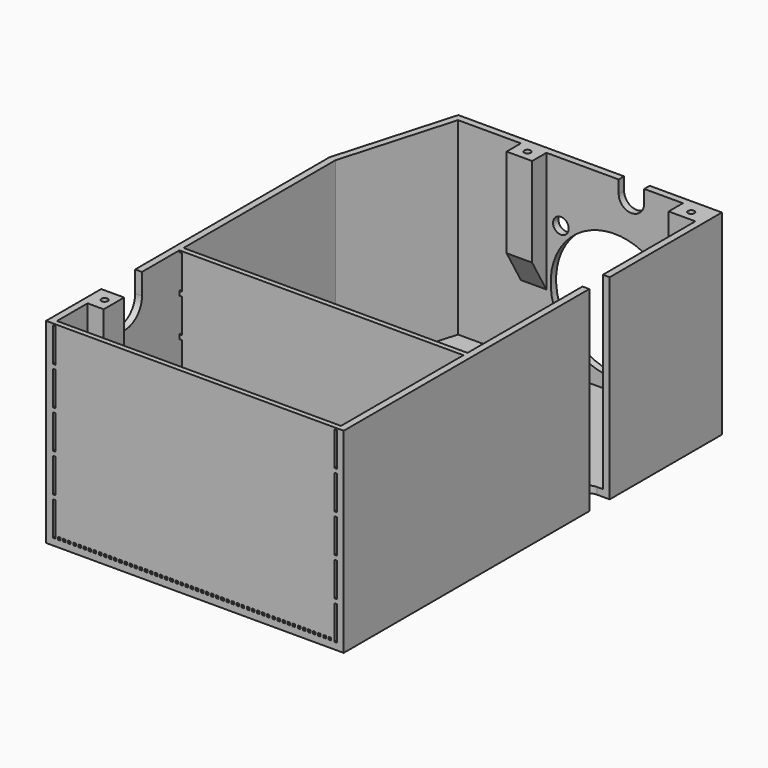
from build123d import *

# Parameters (mm, degrees)
F1_DEPTH  = 58.42
F2_T      = -2.032
F3_W      = 8.001
F3_H      = 5.334
F3_W_2    = 7.62
F3_W_3    = 4.826
F3_H_2    = 7.62
F3_W_4    = 84.836
F3_H_3    = 1.524
F4_DEPTH  = 56.388
F5_R      = 0.9525
F6_DEPTH  = 12.7
F7_DEPTH  = 2.032
F9_DEPTH  = 2.032
F11_DEPTH = 2.032
F13_DEPTH = 2.032
F16_DEPTH = 7.62
F18_DEPTH = 56.388
F19_R     = 2.3495
F19_R_2   = 19.05
F20_DEPTH = 2.032
F23_DEPTH = 2.541
F24_W     = 88.9
F24_H     = 58.42
F25_DEPTH = 1.524
F26_W     = 0.762
F26_H     = 10.16
F26_H_2   = 0.762
F27_DEPTH = 1.524
F28_W     = 0.762
F28_H     = 10.16
F28_H_2   = 0.762
F29_DEPTH = 1.524


with BuildPart() as f1:
    # F0 (on Top) → F1 (new body)
    with BuildSketch(Plane.XY):
        Polygon((-44.45, -69.85), (44.45, -69.85), (44.45, 69.85), (-34.29, 69.85), (-44.45, 34.4178692506), align=None)
    extrude(amount=F1_DEPTH)

    # F2
    f2_openings = [f1.faces().sort_by_distance(p)[0] for p in [
        (0.603889, -0.853543, 58.42),
    ]]
    offset(amount=F2_T, openings=f2_openings)

    # F3 (on face) → F4 (join)
    with BuildSketch(Plane.XY.offset(2.032)):
        with Locations((38.4175, 65.151)):
            Rectangle(F3_W, F3_H)
        with Locations((-10.16, 65.151)):
            Rectangle(F3_W_2, F3_H)
        with Locations((-40.005, -54.61)):
            Rectangle(F3_W_3, F3_H_2)
        with Locations((0, -23.368)):
            Rectangle(F3_W_4, F3_H_3)
    extrude(amount=F4_DEPTH)

    # F5 (on face) → F6 (cut)
    with BuildSketch(Plane.XY.offset(58.42)):
        with Locations((38.735, 65.532)):
            Circle(F5_R)
        with Locations((-10.16, 65.532)):
            Circle(F5_R)
        with Locations((-40.386, -54.61)):
            Circle(F5_R)
    extrude(amount=-F6_DEPTH, mode=Mode.SUBTRACT)

    # F7 (cut, through all): a face of the model
    f7_faces = [f1.faces().sort_by_distance(p)[0] for p in [
        (0, -67.818, 30.226),
    ]]
    extrude(f7_faces, amount=-F7_DEPTH, mode=Mode.SUBTRACT)

    # F8 (on face) → F9 (cut, through all)
    with BuildSketch(Plane(origin=(0, 69.85, 0), x_dir=(-1, 0, 0), z_dir=(0, 1, 0))):
        with BuildLine():
            Line((-22.86, 58.42), (-22.86, 54.61))
            ThreePointArc((-22.86, 54.61), (-19.05, 50.8), (-15.24, 54.61))
            Line((-15.24, 54.61), (-15.24, 58.42))
            Line((-15.24, 58.42), (-22.86, 58.42))
        make_face()
    extrude(amount=-F9_DEPTH, mode=Mode.SUBTRACT)

    # F10 (on face) → F11 (cut, through all)
    with BuildSketch(Plane.YZ.offset(44.45)):
        Polygon((27.94, 2.54), (27.94, 6.35), (27.94, 58.42), (20.32, 58.42), (20.32, 6.35), (20.32, 2.54), align=None)
    extrude(amount=-F11_DEPTH, mode=Mode.SUBTRACT)

    # F12 (on face) → F13 (cut, through all)
    with BuildSketch(Plane(origin=(-44.45, 0, 0), x_dir=(0, -1, 0), z_dir=(-1, 0, 0))):
        with BuildLine():
            Line((38.1, 58.42), (38.1, 52.07))
            ThreePointArc((38.1, 52.07), (44.45, 45.72), (50.8, 52.07))
            Line((50.8, 52.07), (50.8, 58.42))
            Line((50.8, 58.42), (38.1, 58.42))
        make_face()
    extrude(amount=-F13_DEPTH, mode=Mode.SUBTRACT)

    # F15 (on face) → F16 (cut, through all)
    with BuildSketch(Plane.XZ.offset(58.42)):
        Polygon((-37.592, 2.032), (-37.592, 32.5800590949), (-42.418, 24.2211818976), (-42.418, 2.032), align=None)
    extrude(amount=-F16_DEPTH, mode=Mode.SUBTRACT)

    # F17 (on face) → F18 (cut)
    with BuildSketch(Plane(origin=(-13.97, 0, 0), x_dir=(0, -1, 0), z_dir=(-1, 0, 0))):
        Polygon((-62.484, 2.032), (-62.484, 31.7001772846), (-67.818, 22.4614182771), (-67.818, 2.032), align=None)
    extrude(amount=-F18_DEPTH, mode=Mode.SUBTRACT)

    # F19 (on face) → F20 (cut, through all)
    with BuildSketch(Plane.XZ.offset(-67.818)):
        with Locations((-2.032, 8.636)):
            Circle(F19_R)
        with Locations((29.972, 8.636)):
            Circle(F19_R)
        with Locations((-2.032, 40.64)):
            Circle(F19_R)
        with Locations((29.972, 40.64)):
            Circle(F19_R)
        with Locations((13.97, 24.6840521259)):
            Circle(F19_R_2)
    extrude(amount=-F20_DEPTH, mode=Mode.SUBTRACT)

    # F22 (on face) → F23 (cut, through all)
    with BuildSketch(Plane(origin=(0, 0, 0), x_dir=(1, 0, 0), z_dir=(0, 0, -1))):
        with BuildLine():
            Line((40.64, -27.94), (44.45, -27.94))
            Line((44.45, -27.94), (44.45, -20.32))
            Line((44.45, -20.32), (40.64, -20.32))
            ThreePointArc((40.64, -20.32), (36.83, -24.13), (40.64, -27.94))
        make_face()
    extrude(amount=-F23_DEPTH, mode=Mode.SUBTRACT)

    # F24 (on face) → F25 (join)
    with BuildSketch(Plane.XZ.offset(69.85)):
        with Locations((0, 29.21)):
            Rectangle(F24_W, F24_H)
    extrude(amount=F25_DEPTH)

    # F26 (on face) → F27 (cut, through all)
    with BuildSketch(Plane.XZ.offset(71.374)):
        with Locations((-42.037, 7.112)):
            Rectangle(F26_W, F26_H)
        with Locations((-42.037, 18.542)):
            Rectangle(F26_W, F26_H)
        with Locations((-42.037, 29.972)):
            Rectangle(F26_W, F26_H)
        with Locations((-42.037, 41.402)):
            Rectangle(F26_W, F26_H)
        with Locations((-42.037, 52.832)):
            Rectangle(F26_W, F26_H)
        with Locations((42.037, 29.972)):
            Rectangle(F26_W, F26_H)
        with Locations((42.037, 52.832)):
            Rectangle(F26_W, F26_H)
        with Locations((42.037, 18.542)):
            Rectangle(F26_W, F26_H)
        with Locations((42.037, 7.112)):
            Rectangle(F26_W, F26_H)
        with Locations((42.037, 41.402)):
            Rectangle(F26_W, F26_H)
        with Locations((-40.513, 2.413)):
            Rectangle(F26_W, F26_H_2)
        with Locations((-38.989, 2.413)):
            Rectangle(F26_W, F26_H_2)
        with Locations((-37.465, 2.413)):
            Rectangle(F26_W, F26_H_2)
        with Locations((-35.941, 2.413)):
            Rectangle(F26_W, F26_H_2)
        with Locations((-34.417, 2.413)):
            Rectangle(F26_W, F26_H_2)
        with Locations((-32.893, 2.413)):
            Rectangle(F26_W, F26_H_2)
        with Locations((-31.369, 2.413)):
            Rectangle(F26_W, F26_H_2)
        with Locations((-29.845, 2.413)):
            Rectangle(F26_W, F26_H_2)
        with Locations((-28.321, 2.413)):
            Rectangle(F26_W, F26_H_2)
        with Locations((-26.797, 2.413)):
            Rectangle(F26_W, F26_H_2)
        with Locations((-25.273, 2.413)):
            Rectangle(F26_W, F26_H_2)
        with Locations((-23.749, 2.413)):
            Rectangle(F26_W, F26_H_2)
        with Locations((-22.225, 2.413)):
            Rectangle(F26_W, F26_H_2)
        with Locations((-20.701, 2.413)):
            Rectangle(F26_W, F26_H_2)
        with Locations((-19.177, 2.413)):
            Rectangle(F26_W, F26_H_2)
        with Locations((-17.653, 2.413)):
            Rectangle(F26_W, F26_H_2)
        with Locations((-16.129, 2.413)):
            Rectangle(F26_W, F26_H_2)
        with Locations((-14.605, 2.413)):
            Rectangle(F26_W, F26_H_2)
        with Locations((-13.081, 2.413)):
            Rectangle(F26_W, F26_H_2)
        with Locations((-11.557, 2.413)):
            Rectangle(F26_W, F26_H_2)
        with Locations((-10.033, 2.413)):
            Rectangle(F26_W, F26_H_2)
        with Locations((-8.509, 2.413)):
            Rectangle(F26_W, F26_H_2)
        with Locations((-6.985, 2.413)):
            Rectangle(F26_W, F26_H_2)
        with Locations((-5.461, 2.413)):
            Rectangle(F26_W, F26_H_2)
        with Locations((-3.937, 2.413)):
            Rectangle(F26_W, F26_H_2)
        with Locations((-2.413, 2.413)):
            Rectangle(F26_W, F26_H_2)
        with Locations((-0.889, 2.413)):
            Rectangle(F26_W, F26_H_2)
        with Locations((0.635, 2.413)):
            Rectangle(F26_W, F26_H_2)
        with Locations((2.159, 2.413)):
            Rectangle(F26_W, F26_H_2)
        with Locations((3.683, 2.413)):
            Rectangle(F26_W, F26_H_2)
        with Locations((5.207, 2.413)):
            Rectangle(F26_W, F26_H_2)
        with Locations((6.731, 2.413)):
            Rectangle(F26_W, F26_H_2)
        with Locations((8.255, 2.413)):
            Rectangle(F26_W, F26_H_2)
        with Locations((9.779, 2.413)):
            Rectangle(F26_W, F26_H_2)
        with Locations((11.303, 2.413)):
            Rectangle(F26_W, F26_H_2)
        with Locations((12.827, 2.413)):
            Rectangle(F26_W, F26_H_2)
        with Locations((14.351, 2.413)):
            Rectangle(F26_W, F26_H_2)
        with Locations((15.875, 2.413)):
            Rectangle(F26_W, F26_H_2)
        with Locations((17.399, 2.413)):
            Rectangle(F26_W, F26_H_2)
        with Locations((18.923, 2.413)):
            Rectangle(F26_W, F26_H_2)
        with Locations((20.447, 2.413)):
            Rectangle(F26_W, F26_H_2)
        with Locations((21.971, 2.413)):
            Rectangle(F26_W, F26_H_2)
        with Locations((23.495, 2.413)):
            Rectangle(F26_W, F26_H_2)
        with Locations((25.019, 2.413)):
            Rectangle(F26_W, F26_H_2)
        with Locations((26.543, 2.413)):
            Rectangle(F26_W, F26_H_2)
        with Locations((28.067, 2.413)):
            Rectangle(F26_W, F26_H_2)
        with Locations((29.591, 2.413)):
            Rectangle(F26_W, F26_H_2)
        with Locations((31.115, 2.413)):
            Rectangle(F26_W, F26_H_2)
        with Locations((32.639, 2.413)):
            Rectangle(F26_W, F26_H_2)
        with Locations((34.163, 2.413)):
            Rectangle(F26_W, F26_H_2)
        with Locations((35.687, 2.413)):
            Rectangle(F26_W, F26_H_2)
        with Locations((37.211, 2.413)):
            Rectangle(F26_W, F26_H_2)
        with Locations((38.735, 2.413)):
            Rectangle(F26_W, F26_H_2)
        with Locations((40.259, 2.413)):
            Rectangle(F26_W, F26_H_2)
    extrude(amount=-F27_DEPTH, mode=Mode.SUBTRACT)

    # F28 (on face) → F29 (cut, through all)
    with BuildSketch(Plane.XZ.offset(24.13)):
        with Locations((-42.037, 7.112)):
            Rectangle(F28_W, F28_H)
        with Locations((-42.037, 18.542)):
            Rectangle(F28_W, F28_H)
        with Locations((-42.037, 29.972)):
            Rectangle(F28_W, F28_H)
        with Locations((-42.037, 41.402)):
            Rectangle(F28_W, F28_H)
        with Locations((-42.037, 52.832)):
            Rectangle(F28_W, F28_H)
        with Locations((42.037, 29.972)):
            Rectangle(F28_W, F28_H)
        with Locations((42.037, 52.832)):
            Rectangle(F28_W, F28_H)
        with Locations((42.037, 18.542)):
            Rectangle(F28_W, F28_H)
        with Locations((42.037, 7.112)):
            Rectangle(F28_W, F28_H)
        with Locations((42.037, 41.402)):
            Rectangle(F28_W, F28_H)
        with Locations((-40.513, 2.413)):
            Rectangle(F28_W, F28_H_2)
        with Locations((-38.989, 2.413)):
            Rectangle(F28_W, F28_H_2)
        with Locations((-37.465, 2.413)):
            Rectangle(F28_W, F28_H_2)
        with Locations((-35.941, 2.413)):
            Rectangle(F28_W, F28_H_2)
        with Locations((-34.417, 2.413)):
            Rectangle(F28_W, F28_H_2)
        with Locations((-32.893, 2.413)):
            Rectangle(F28_W, F28_H_2)
        with Locations((-31.369, 2.413)):
            Rectangle(F28_W, F28_H_2)
        with Locations((-29.845, 2.413)):
            Rectangle(F28_W, F28_H_2)
        with Locations((-28.321, 2.413)):
            Rectangle(F28_W, F28_H_2)
        with Locations((-26.797, 2.413)):
            Rectangle(F28_W, F28_H_2)
        with Locations((-25.273, 2.413)):
            Rectangle(F28_W, F28_H_2)
        with Locations((-23.749, 2.413)):
            Rectangle(F28_W, F28_H_2)
        with Locations((-22.225, 2.413)):
            Rectangle(F28_W, F28_H_2)
        with Locations((-20.701, 2.413)):
            Rectangle(F28_W, F28_H_2)
        with Locations((-19.177, 2.413)):
            Rectangle(F28_W, F28_H_2)
        with Locations((-17.653, 2.413)):
            Rectangle(F28_W, F28_H_2)
        with Locations((-16.129, 2.413)):
            Rectangle(F28_W, F28_H_2)
        with Locations((-14.605, 2.413)):
            Rectangle(F28_W, F28_H_2)
        with Locations((-13.081, 2.413)):
            Rectangle(F28_W, F28_H_2)
        with Locations((-11.557, 2.413)):
            Rectangle(F28_W, F28_H_2)
        with Locations((-10.033, 2.413)):
            Rectangle(F28_W, F28_H_2)
        with Locations((-8.509, 2.413)):
            Rectangle(F28_W, F28_H_2)
        with Locations((-6.985, 2.413)):
            Rectangle(F28_W, F28_H_2)
        with Locations((-5.461, 2.413)):
            Rectangle(F28_W, F28_H_2)
        with Locations((-3.937, 2.413)):
            Rectangle(F28_W, F28_H_2)
        with Locations((-2.413, 2.413)):
            Rectangle(F28_W, F28_H_2)
        with Locations((-0.889, 2.413)):
            Rectangle(F28_W, F28_H_2)
        with Locations((0.635, 2.413)):
            Rectangle(F28_W, F28_H_2)
        with Locations((2.159, 2.413)):
            Rectangle(F28_W, F28_H_2)
        with Locations((3.683, 2.413)):
            Rectangle(F28_W, F28_H_2)
        with Locations((5.207, 2.413)):
            Rectangle(F28_W, F28_H_2)
        with Locations((6.731, 2.413)):
            Rectangle(F28_W, F28_H_2)
        with Locations((8.255, 2.413)):
            Rectangle(F28_W, F28_H_2)
        with Locations((9.779, 2.413)):
            Rectangle(F28_W, F28_H_2)
        with Locations((11.303, 2.413)):
            Rectangle(F28_W, F28_H_2)
        with Locations((12.827, 2.413)):
            Rectangle(F28_W, F28_H_2)
        with Locations((14.351, 2.413)):
            Rectangle(F28_W, F28_H_2)
        with Locations((15.875, 2.413)):
            Rectangle(F28_W, F28_H_2)
        with Locations((17.399, 2.413)):
            Rectangle(F28_W, F28_H_2)
        with Locations((18.923, 2.413)):
            Rectangle(F28_W, F28_H_2)
        with Locations((20.447, 2.413)):
            Rectangle(F28_W, F28_H_2)
        with Locations((21.971, 2.413)):
            Rectangle(F28_W, F28_H_2)
        with Locations((23.495, 2.413)):
            Rectangle(F28_W, F28_H_2)
        with Locations((25.019, 2.413)):
            Rectangle(F28_W, F28_H_2)
        with Locations((26.543, 2.413)):
            Rectangle(F28_W, F28_H_2)
        with Locations((28.067, 2.413)):
            Rectangle(F28_W, F28_H_2)
        with Locations((29.591, 2.413)):
            Rectangle(F28_W, F28_H_2)
        with Locations((31.115, 2.413)):
            Rectangle(F28_W, F28_H_2)
        with Locations((32.639, 2.413)):
            Rectangle(F28_W, F28_H_2)
        with Locations((34.163, 2.413)):
            Rectangle(F28_W, F28_H_2)
        with Locations((35.687, 2.413)):
            Rectangle(F28_W, F28_H_2)
        with Locations((37.211, 2.413)):
            Rectangle(F28_W, F28_H_2)
        with Locations((38.735, 2.413)):
            Rectangle(F28_W, F28_H_2)
        with Locations((40.259, 2.413)):
            Rectangle(F28_W, F28_H_2)
    extrude(amount=-F29_DEPTH, mode=Mode.SUBTRACT)


solid = f1.part
